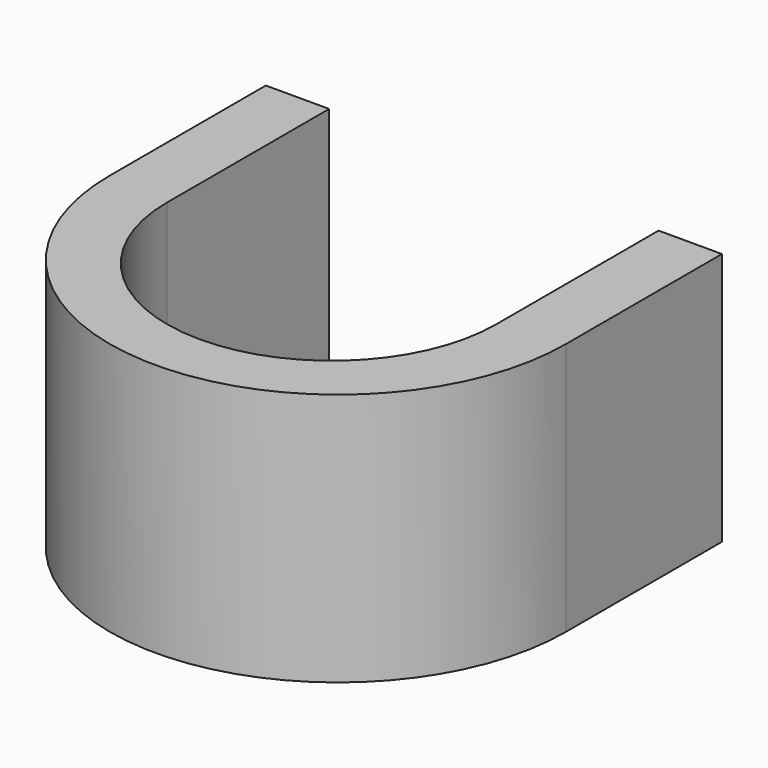
from build123d import *

# Parameters (mm, degrees)
PAD_DEPTH = 20


with BuildPart() as part:
    # Sketch → Pad (new body)
    with BuildSketch(Plane.XY):
        with BuildLine():
            ThreePointArc((-13, 17.39186), (0, 4.391889), (13, 17.39186))
            Line((13, 17.39186), (13, 33.39186))
            Line((13, 33.39186), (18, 33.39186))
            Line((18, 18), (18, 33.39186))
            ThreePointArc((-18, 18), (0, 5.2e-05), (18, 18))
            Line((-18, 18), (-18, 33.39186))
            Line((-18, 33.39186), (-13, 33.39186))
            Line((-13, 17.39186), (-13, 33.39186))
        make_face()
    extrude(amount=PAD_DEPTH)


solid = part.part
